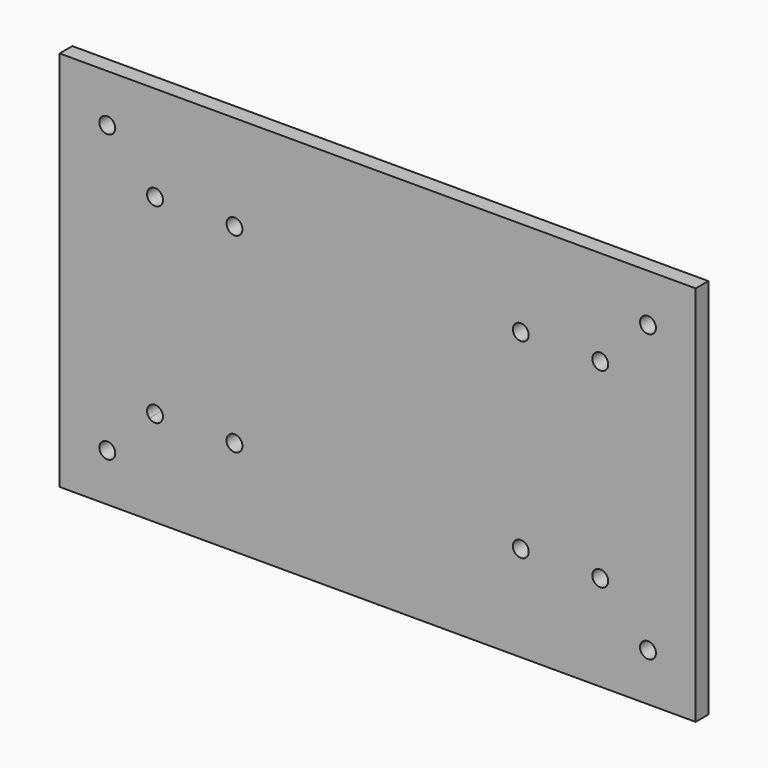
from build123d import *

# Parameters (mm, degrees)
F0_W     = 200
F0_H     = 120
F0_R     = 2.5
F1_DEPTH = 5


with BuildPart() as f1:
    # F0 (on Front) → F1 (new body)
    with BuildSketch(Plane.XZ):
        with Locations((100, 60)):
            Rectangle(F0_W, F0_H)
        with BuildLine():
            ThreePointArc((16.767767, 16.767767), (17.309699, 15.956709), (17.5, 15))
            ThreePointArc((17.5, 15), (12.690301, 14.043291), (16.767767, 16.767767))
        make_face(mode=Mode.SUBTRACT)
        with BuildLine():
            ThreePointArc((32.5, 30), (30.956709, 27.690301), (28.232233, 28.232233))
            ThreePointArc((28.232233, 28.232233), (29.043291, 32.309699), (32.5, 30))
        make_face(mode=Mode.SUBTRACT)
        with Locations((54.987554, 30)):
            Circle(F0_R, mode=Mode.SUBTRACT)
        with Locations((185, 15)):
            Circle(F0_R, mode=Mode.SUBTRACT)
        with Locations((145.012446, 30)):
            Circle(F0_R, mode=Mode.SUBTRACT)
        with Locations((170, 30)):
            Circle(F0_R, mode=Mode.SUBTRACT)
        with Locations((30, 90)):
            Circle(F0_R, mode=Mode.SUBTRACT)
        with Locations((15, 105)):
            Circle(F0_R, mode=Mode.SUBTRACT)
        with Locations((54.987554, 90)):
            Circle(F0_R, mode=Mode.SUBTRACT)
        with Locations((145.012446, 90)):
            Circle(F0_R, mode=Mode.SUBTRACT)
        with Locations((170, 90)):
            Circle(F0_R, mode=Mode.SUBTRACT)
        with Locations((185, 105)):
            Circle(F0_R, mode=Mode.SUBTRACT)
    extrude(amount=F1_DEPTH)


solid = f1.part
